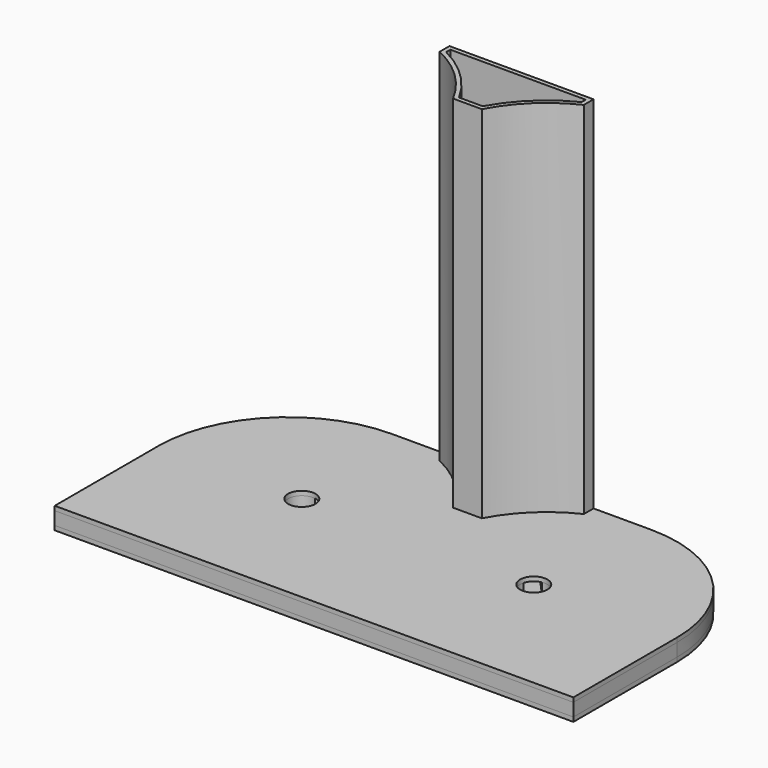
from build123d import *

# Parameters (mm, degrees)
F0_W     = 360
F0_H     = 180
F1_DEPTH = 9
F2_W     = 360
F2_H     = 180
F2_R     = 9.5
F2_R_2   = 5
F3_DEPTH = 3
F4_W     = 360
F4_H     = 180
F5_DEPTH = 3
F7_DEPTH = 250
F8_R     = 90
F8_2_R   = 90
F8_3_R   = 90
F9_T     = -3


with BuildPart() as f1:
    # F0 (on Top) → F1 (new body)
    with BuildSketch(Plane.XY):
        Rectangle(F0_W, F0_H)
        with BuildLine():
            ThreePointArc((-71.388029, 2.687377), (-86.833401, -7.080821), (-78.841525, 9.354115))
            Line((-78.841525, 9.354115), (-17.060224, 78.426377))
            ThreePointArc((-17.060224, 78.426377), (-10.000107, 78.819756), (-9.606728, 71.759639))
            Line((-9.606728, 71.759639), (-71.388029, 2.687377))
        make_face(mode=Mode.SUBTRACT)
        with BuildLine():
            Line((71.388029, 2.687377), (9.606728, 71.759639))
            ThreePointArc((9.606728, 71.759639), (10.000107, 78.819756), (17.060224, 78.426377))
            Line((17.060224, 78.426377), (78.841525, 9.354115))
            ThreePointArc((78.841525, 9.354115), (86.833401, -7.080821), (71.388029, 2.687377))
        make_face(mode=Mode.SUBTRACT)
    extrude(amount=F1_DEPTH)

    # F8
    f8_edges = [f1.edges().sort_by_distance(p)[0] for p in [
        (-180, 90, 4.5),
        (180, 90, 4.5),
    ]]
    fillet(f8_edges, radius=F8_R)


with BuildPart() as f3:
    # F2 (on face) → F3 (new body)
    with BuildSketch(Plane.XY.offset(9)):
        Rectangle(F2_W, F2_H)
        with Locations((-80.5, 0)):
            Circle(F2_R, mode=Mode.SUBTRACT)
        with Locations((-13.333476, 75.093008)):
            Circle(F2_R_2, mode=Mode.SUBTRACT)
        with Locations((80.5, 0)):
            Circle(F2_R, mode=Mode.SUBTRACT)
        with Locations((13.333476, 75.093008)):
            Circle(F2_R_2, mode=Mode.SUBTRACT)
    extrude(amount=F3_DEPTH)

    # F8#2
    f8_2_edges = [f3.edges().sort_by_distance(p)[0] for p in [
        (180, 90, 10.5),
        (-180, 90, 10.5),
    ]]
    fillet(f8_2_edges, radius=F8_2_R)


with BuildPart() as f5:
    # F4 (on face) → F5 (new body)
    with BuildSketch(Plane(origin=(0, 0, 0), x_dir=(1, 0, 0), z_dir=(0, 0, -1))):
        Rectangle(F4_W, F4_H)
    extrude(amount=F5_DEPTH)

    # F8#3
    f8_3_edges = [f5.edges().sort_by_distance(p)[0] for p in [
        (180, 90, -1.5),
        (-180, 90, -1.5),
    ]]
    fillet(f8_3_edges, radius=F8_3_R)


with BuildPart() as f7:
    # F6 (on face) → F7 (new body)
    with BuildSketch(Plane.XY.offset(12)):
        with BuildLine():
            Line((50, 90), (-50, 90))
            Line((-50, 90), (-50, 81.539987))
            ThreePointArc((-50, 81.539987), (-26.894774, 65.578725), (-10.035722, 43.120192))
            Line((-10.035722, 43.120192), (9.964278, 43.120192))
            ThreePointArc((9.964278, 43.120192), (26.851839, 65.606119), (50, 81.573876))
            Line((50, 81.573876), (50, 90))
        make_face()
    extrude(amount=F7_DEPTH)

    # F9
    f9_openings = [f7.faces().sort_by_distance(p)[0] for p in [
        (-0.025007, 72.712373, 262),
        (-0.025007, 72.712373, 12),
    ]]
    offset(amount=F9_T, openings=f9_openings)


solid = Compound([f1.part, f3.part, f5.part, f7.part])
